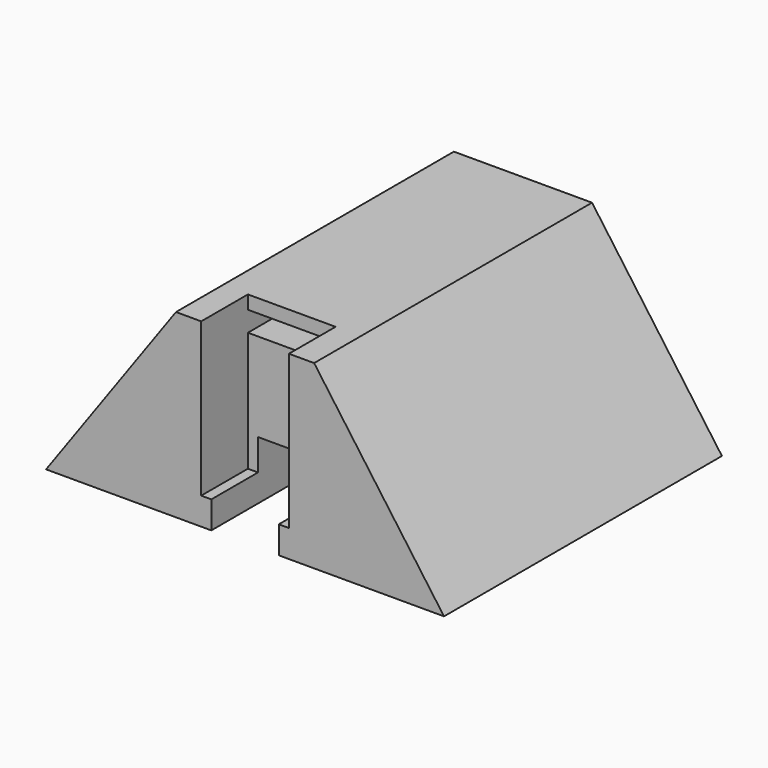
from build123d import *

# Parameters (mm, degrees)
F0_W      = 59
F0_H      = 51.5
F1_DEPTH  = 26.8
F2_W      = 10
F2_H      = 8.65
F3_DEPTH  = 26.8
F4_W      = 1.5
F4_H      = 8.65
F5_DEPTH  = 22.75
F7_DEPTH  = 51.5
F9_DEPTH  = 51.5
F11_DEPTH = 51.5
F12_W     = 13
F12_H     = 3
F13_DEPTH = 5


with BuildPart() as f1:
    # F0 (on Top) → F1 (new body)
    with BuildSketch(Plane.XY):
        Rectangle(F0_W, F0_H)
    extrude(amount=F1_DEPTH)

    # F2 (on face) → F3 (cut)
    with BuildSketch(Plane.XY.offset(26.8)):
        with Locations((0, -21.425)):
            Rectangle(F2_W, F2_H)
    extrude(amount=-F3_DEPTH, mode=Mode.SUBTRACT)

    # F4 (on face) → F5 (cut)
    with BuildSketch(Plane.XY.offset(26.8)):
        with Locations((-5.75, -21.425)):
            Rectangle(F4_W, F4_H)
        with Locations((5.75, -21.425)):
            Rectangle(F4_W, F4_H)
    extrude(amount=-F5_DEPTH, mode=Mode.SUBTRACT)

    # F6 (on face) → F7 (cut)
    with BuildSketch(Plane.XZ.offset(25.75)):
        Polygon((-29.5, 26.8), (-29.5, 0), (-10.242246399, 26.8), align=None)
    extrude(amount=-F7_DEPTH, mode=Mode.SUBTRACT)

    # F8 (on face) → F9 (cut)
    with BuildSketch(Plane.XZ.offset(25.75)):
        Polygon((10.242246399, 26.8), (29.5, 0), (29.5, 26.8), align=None)
    extrude(amount=-F9_DEPTH, mode=Mode.SUBTRACT)

    # F10 (on face) → F11 (cut)
    with BuildSketch(Plane.XZ.offset(17.1)):
        Polygon((5, 8.67), (-5, 8.67), (-5, 4.05), (-5, 0), (5, 0), (5, 4.05), align=None)
    extrude(amount=-F11_DEPTH, mode=Mode.SUBTRACT)

    # F12 (on face) → F13 (cut)
    with BuildSketch(Plane.XZ.offset(17.1)):
        with Locations((0, 23.3)):
            Rectangle(F12_W, F12_H)
    extrude(amount=-F13_DEPTH, mode=Mode.SUBTRACT)


solid = f1.part
